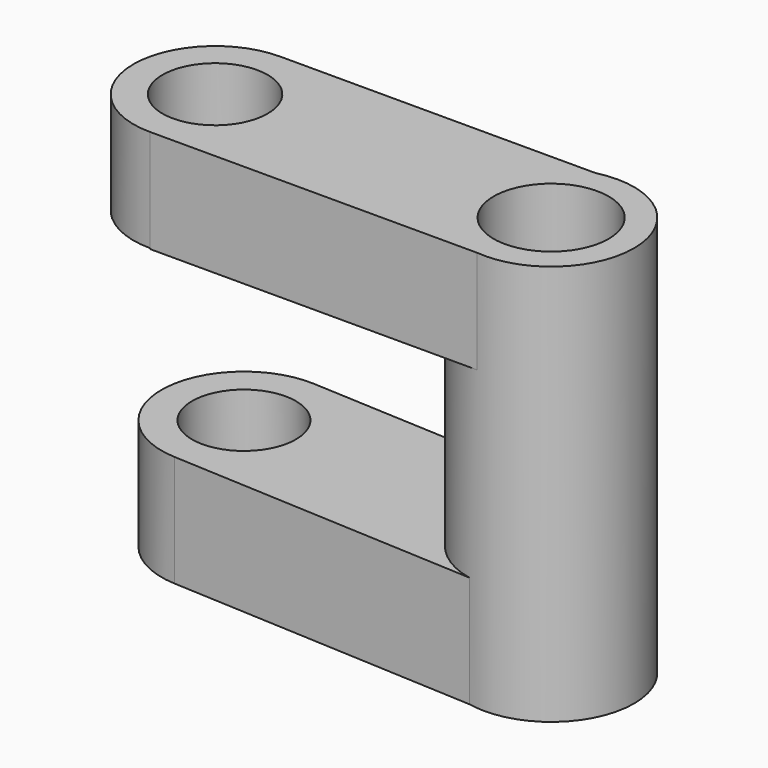
from build123d import *

# Parameters (mm, degrees)
F0_R      = 25.332369153
F1_DEPTH  = 122.428
F3_DEPTH  = 34.036
F4_R      = 25.1663808995
F5_DEPTH  = 34.036
F6_W      = 99.9408867977
F6_H      = 49.807743342
F7_DEPTH  = 31.496
F9_DEPTH  = 31.242
F11_R     = 15.866808683
F12_DEPTH = 52.832
F10_R     = 16.051664823
F13_DEPTH = 70.104
F14_R     = 17.5666522391
F15_DEPTH = 262.382


with BuildPart() as f1:
    # F0 (on Top) → F1 (new body)
    with BuildSketch(Plane.XY):
        with Locations((21.7129960656, 27.794552967)):
            Circle(F0_R)
    extrude(amount=F1_DEPTH)

    # F2 (on face) → F3 (join)
    with BuildSketch(Plane(origin=(0, 0, 0), x_dir=(1, 0, 0), z_dir=(0, 0, -1))):
        with BuildLine():
            ThreePointArc((24.2469048948, -42.8027561924), (33.3369903631, -37.6205193104), (36.9336024271, -27.794552967))
            ThreePointArc((36.9336024271, -27.794552967), (33.3369903631, -17.9685866235), (24.2469048948, -12.7863497415))
            Line((24.2469048948, -12.7863497415), (24.2469048948, -42.8027561924))
        make_face()
        with BuildLine():
            Line((24.2469048948, -42.8027561924), (24.2469048948, -12.7863497415))
            ThreePointArc((24.2469048948, -12.7863497415), (6.4923897041, -27.794552967), (24.2469048948, -42.8027561924))
        make_face()
        with BuildLine():
            ThreePointArc((24.2469048948, -42.8027561924), (6.4923897041, -27.794552967), (24.2469048948, -12.7863497415))
            Line((24.2469048948, -12.7863497415), (24.2469048948, -2.5892314465))
            Line((24.2469048948, -2.5892314465), (-77.2918909788, -7.7366237529))
            Line((-77.2918909788, -7.7366237529), (-75.0896409154, -58.021184057))
            Line((-75.0896409154, -58.021184057), (24.2469048948, -52.9998744874))
            Line((24.2469048948, -52.9998744874), (24.2469048948, -42.8027561924))
        make_face()
        with BuildLine():
            ThreePointArc((21.7336893247, -53.1269136681), (-3.4898764651, -30.3527052507), (16.6431184636, -2.9746966417))
            Line((16.6431184636, -2.9746966417), (-77.2918909788, -7.7366237529))
            Line((-77.2918909788, -7.7366237529), (-75.0896409154, -58.021184057))
            Line((-75.0896409154, -58.021184057), (21.7336893247, -53.1269136681))
        make_face()
    extrude(amount=-F3_DEPTH)

    # F4 (on face) → F5 (join)
    with BuildSketch(Plane(origin=(0, 0, 0), x_dir=(1, 0, 0), z_dir=(0, 0, -1))):
        with Locations((-76.1907659471, -32.8789039049)):
            Circle(F4_R)
    extrude(amount=-F5_DEPTH)

    # F6 (on face) → F7 (join)
    with BuildSketch(Plane.XY.offset(122.428)):
        with Locations((-30.7190240909, 27.4859363282)):
            Rectangle(F6_W, F6_H)
    extrude(amount=-F7_DEPTH)

    # F8 (on face) → F9 (join)
    with BuildSketch(Plane.XY.offset(122.428)):
        with BuildLine():
            Line((-80.6894674897, 2.5820646572), (-80.6894674897, 52.3898079991))
            ThreePointArc((-80.6894674897, 52.3898079991), (-105.5933391607, 27.4859363282), (-80.6894674897, 2.5820646572))
        make_face()
    extrude(amount=-F9_DEPTH)

    # F11 (on face) → F12 (cut)
    with BuildSketch(Plane(origin=(0, 0, 0), x_dir=(1, 0, 0), z_dir=(0, 0, -1))):
        with Locations((-76.1907659471, -32.8789039049)):
            Circle(F11_R)
    extrude(amount=-F12_DEPTH, mode=Mode.SUBTRACT)

    # F10 (on face) → F13 (cut)
    with BuildSketch(Plane.XY.offset(122.428)):
        with Locations((-80.6894674897, 27.4859363282)):
            Circle(F10_R)
    extrude(amount=-F13_DEPTH, mode=Mode.SUBTRACT)

    # F14 (on face) → F15 (cut)
    with BuildSketch(Plane.XY.offset(122.428)):
        with Locations((21.7129960656, 27.794552967)):
            Circle(F14_R)
    extrude(amount=-F15_DEPTH, mode=Mode.SUBTRACT)


solid = f1.part
